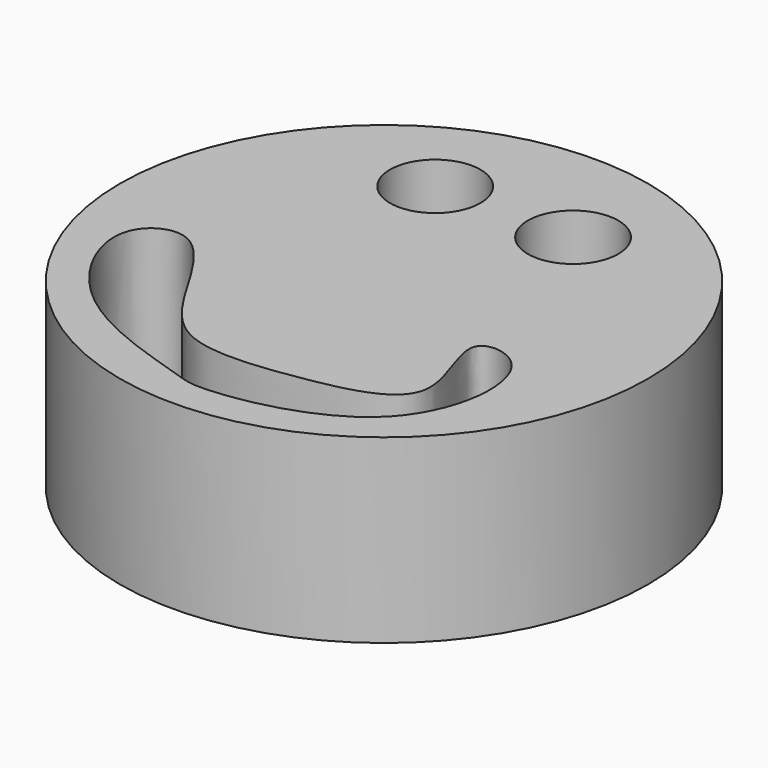
from build123d import *

# Parameters (mm, degrees)
F0_R     = 74.0911824738
F0_R_2   = 12.7
F1_DEPTH = 50.8


with BuildPart() as f1:
    # F0 (on Top) → F1 (new body)
    with BuildSketch(Plane.XY):
        Circle(F0_R)
        with BuildLine():
            add(Edge.make_bspline(
                [(-58.6320832372, -16.6622009128), (-61.2631366508, -24.3588513886), (-48.2994337951, -51.8466627109), (-7.9275263581, -62.1936925641), (-0.9821539768, -66.0346453698), (49.7643489144, -57.9168150722), (53.7123574489, -10.2532598231), (27.6483170593, -7.7984192673), (48.6439343372, -40.1955251632), (13.6337583677, -48.0755743444), (-15.9351520607, -51.0060605321), (-29.8218016702, -34.7942918241), (-44.2594911881, -5.1084255642), (-56.9877387659, -11.8519813287), (-58.6320832372, -16.6622009128)],
                knots=[0, 0, 0, 0, 0.0954116996, 0.2000303433, 0.2496152763, 0.3603320777, 0.460609816, 0.5169553931, 0.5979675412, 0.6847982191, 0.7754153682, 0.8508067811, 0.9403700054, 1, 1, 1, 1], degree=3))
        make_face(mode=Mode.SUBTRACT)
        with Locations((-19.3344410509, 42.1270728111)):
            Circle(F0_R_2, mode=Mode.SUBTRACT)
        with Locations((19.3344410509, 42.1270728111)):
            Circle(F0_R_2, mode=Mode.SUBTRACT)
    extrude(amount=F1_DEPTH)


solid = f1.part
